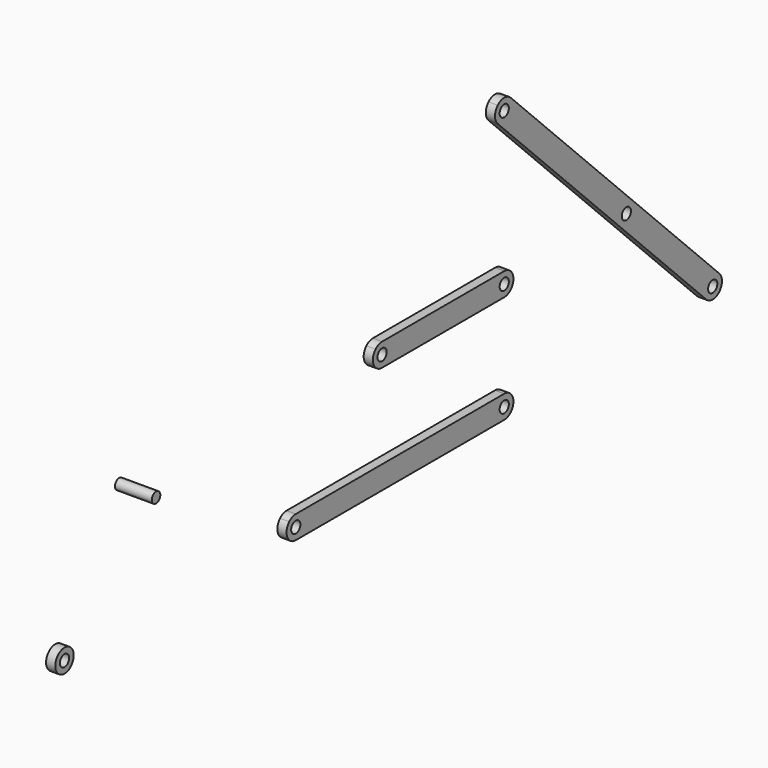
from build123d import *

# Parameters (mm, degrees)
F3_DEPTH  = 2
F4_DEPTH  = 2
F5_D      = 2.5
F5_2_D    = 2.5
F6_DEPTH  = 2
F7_D      = 2.5
F8_D      = 2.5
F2_R      = 2.5
F9_DEPTH  = 2
F10_D     = 2.5
F2_R_2    = 1.15
F11_DEPTH = 4
F12_DEPTH = 6
F13_DEPTH = 8


with BuildPart() as f3:
    # F2 (on Right) → F3 (new body)
    with BuildSketch(Plane.YZ):
        with BuildLine():
            ThreePointArc((-54.800775542, 58.3363094479), (-54.0685424949, 56.5685424949), (-54.800775542, 54.800775542))
            Line((-54.800775542, 54.800775542), (-56.5685424949, 53.033008589))
            Line((-56.5685424949, 53.033008589), (-1.767766953, -1.767766953))
            ThreePointArc((-1.767766953, -1.767766953), (1.767766953, -1.767766953), (1.767766953, 1.767766953))
            Line((1.767766953, 1.767766953), (-54.800775542, 58.3363094479))
        make_face()
        Polygon((-56.5685424949, 53.033008589), (-54.800775542, 54.800775542), (-56.5685424949, 56.5685424949), (-58.3363094479, 54.800775542), align=None)
        with BuildLine():
            Line((-56.5685424949, 56.5685424949), (-54.800775542, 54.800775542))
            ThreePointArc((-54.800775542, 54.800775542), (-54.0685424949, 56.5685424949), (-54.800775542, 58.3363094479))
            ThreePointArc((-54.800775542, 58.3363094479), (-56.5685424949, 59.0685424949), (-58.3363094479, 58.3363094479))
            ThreePointArc((-58.3363094479, 58.3363094479), (-59.0685424949, 56.5685424949), (-58.3363094479, 54.800775542))
            Line((-58.3363094479, 54.800775542), (-56.5685424949, 56.5685424949))
        make_face()
    extrude(amount=F3_DEPTH)

    # F5 (through all)
    with Locations(Plane(origin=(0, 0, 0), x_dir=(0, 1, 0), z_dir=(-1, 0, 0))):
        with Locations((-56.5685424949, 0), (-113.1370849898, 0), (0, 0), (-56.5685424949, -56.5685424949)):
            Hole(F5_D / 2)

    # F8 (through all)
    with Locations(Plane(origin=(0, 0, 0), x_dir=(0, 1, 0), z_dir=(-1, 0, 0))):
        with Locations((-23.4314575051, -23.4314575051)):
            Hole(F8_D / 2)


with BuildPart() as f4:
    # F2 (on Right) → F4 (new body)
    with BuildSketch(Plane.YZ):
        with BuildLine():
            ThreePointArc((-111.3693180369, -1.767766953), (-112.1803764089, -2.3096988313), (-113.1370849898, -2.5))
            Line((-113.1370849898, -2.5), (-56.5685424949, -2.5))
            ThreePointArc((-56.5685424949, -2.5), (-54.0685424949, 0), (-56.5685424949, 2.5))
            Line((-56.5685424949, 2.5), (-107.1015510839, 2.5))
            Line((-107.1015510839, 2.5), (-109.6015510839, 0))
            Line((-109.6015510839, 0), (-111.3693180369, -1.767766953))
        make_face()
        Polygon((-107.1015510839, 2.5), (-110.6370849898, 2.5), (-113.1370849898, 0), (-109.6015510839, 0), align=None)
        with BuildLine():
            ThreePointArc((-113.1370849898, 2.5), (-114.0937935708, 2.3096988313), (-114.9048519428, 1.767766953))
            ThreePointArc((-114.9048519428, 1.767766953), (-115.4467838211, -0.9567085809), (-113.1370849898, -2.5))
            ThreePointArc((-113.1370849898, -2.5), (-112.1803764089, -2.3096988313), (-111.3693180369, -1.767766953))
            Line((-111.3693180369, -1.767766953), (-109.6015510839, 0))
            Line((-109.6015510839, 0), (-113.1370849898, 0))
            Line((-113.1370849898, 0), (-110.6370849898, 2.5))
            Line((-110.6370849898, 2.5), (-113.1370849898, 2.5))
        make_face()
    extrude(amount=F4_DEPTH)

    # F5#2 (through all)
    with Locations(Plane(origin=(0, 0, 0), x_dir=(0, 1, 0), z_dir=(-1, 0, 0))):
        with Locations((-56.5685424949, 0), (-113.1370849898, 0), (0, 0), (-56.5685424949, -56.5685424949)):
            Hole(F5_2_D / 2)


with BuildPart() as f6:
    # F2 (on Right) → F6 (new body)
    with BuildSketch(Plane.YZ):
        with BuildLine():
            Line((-56.5685424949, 25.9314575051), (-83.6700935788, 25.9314575051))
            Line((-83.6700935788, 25.9314575051), (-86.1700935788, 23.4314575051))
            Line((-86.1700935788, 23.4314575051), (-88.6700935788, 20.9314575051))
            Line((-88.6700935788, 20.9314575051), (-56.5685424949, 20.9314575051))
            ThreePointArc((-56.5685424949, 20.9314575051), (-54.0685424949, 23.4314575051), (-56.5685424949, 25.9314575051))
        make_face()
        Polygon((-86.1700935788, 23.4314575051), (-83.6700935788, 25.9314575051), (-87.2056274848, 25.9314575051), (-89.7056274848, 23.4314575051), align=None)
        with BuildLine():
            Line((-89.7056274848, 23.4314575051), (-87.2056274848, 25.9314575051))
            Line((-87.2056274848, 25.9314575051), (-89.7056274848, 25.9314575051))
            ThreePointArc((-89.7056274848, 25.9314575051), (-90.6623360391, 25.7411563474), (-91.473394397, 25.1992244988))
            ThreePointArc((-91.473394397, 25.1992244988), (-92.2056274848, 23.4314575339), (-91.4733944377, 21.6636905521))
            Line((-91.4733944377, 21.6636905521), (-89.7056274848, 23.4314575051))
        make_face()
        with BuildLine():
            Line((-88.6700935788, 20.9314575051), (-86.1700935788, 23.4314575051))
            Line((-86.1700935788, 23.4314575051), (-89.7056274848, 23.4314575051))
            Line((-89.7056274848, 23.4314575051), (-91.4733944377, 21.6636905521))
            ThreePointArc((-91.4733944377, 21.6636905521), (-90.6623360657, 21.1217586738), (-89.7056274848, 20.9314575051))
            Line((-89.7056274848, 20.9314575051), (-88.6700935788, 20.9314575051))
        make_face()
    extrude(amount=F6_DEPTH)

    # F7 (through all)
    with Locations(Plane(origin=(0, 0, 0), x_dir=(0, 1, 0), z_dir=(-1, 0, 0))):
        with Locations((-89.7056274848, -23.4314575051), (-56.5685424949, -23.4314575051)):
            Hole(F7_D / 2)


with BuildPart() as f9:
    # F2 (on Right) → F9 (new body)
    with BuildSketch(Plane.YZ):
        with Locations((-175.8827120066, 0)):
            Circle(F2_R)
    extrude(amount=F9_DEPTH)

    # F10 (through all)
    with Locations(Plane(origin=(0, 0, 0), x_dir=(0, 1, 0), z_dir=(-1, 0, 0))):
        with Locations((-175.8827120066, 0)):
            Hole(F10_D / 2)


with BuildPart() as f11:
    # F2 (on Right) → F11 (new body)
    with BuildSketch(Plane.YZ):
        with Locations((-158.534809947, 26.0670315474)):
            Circle(F2_R_2)
    extrude(amount=F11_DEPTH)


with BuildPart() as f12:
    # F2 (on Right) → F12 (new body)
    with BuildSketch(Plane.YZ):
        with Locations((-158.534809947, 26.0670315474)):
            Circle(F2_R_2)
    extrude(amount=F12_DEPTH)


with BuildPart() as f13:
    # F2 (on Right) → F13 (new body)
    with BuildSketch(Plane.YZ):
        with Locations((-158.534809947, 26.0670315474)):
            Circle(F2_R_2)
    extrude(amount=F13_DEPTH)


solid = Compound([f3.part, f4.part, f6.part, f9.part, f11.part, f12.part, f13.part])
